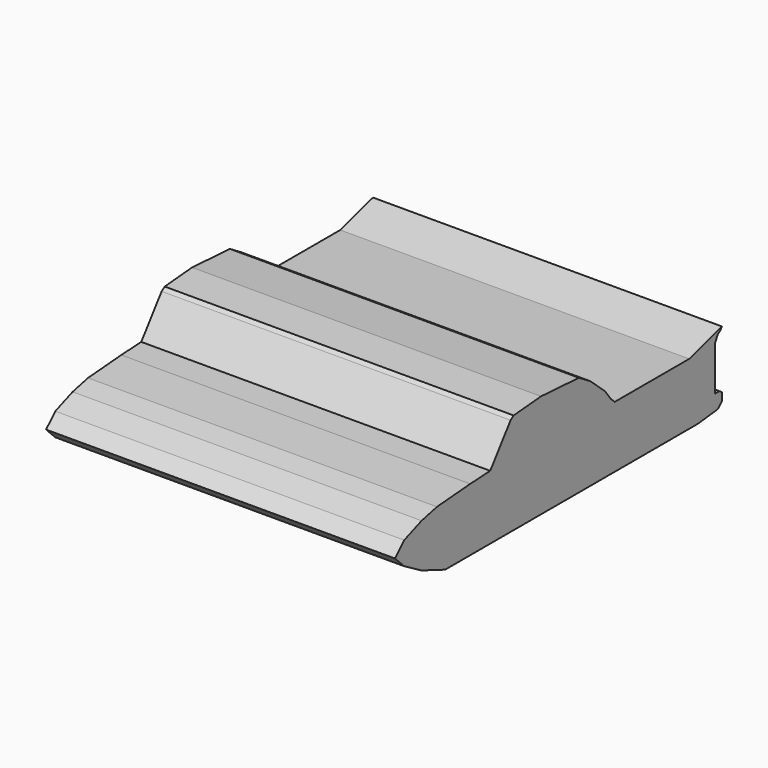
from build123d import *

# Parameters (mm, degrees)
F1_DEPTH = 76.2


with BuildPart() as f1:
    # F0 (on Right) → F1 (new body)
    with BuildSketch(Plane.YZ):
        Polygon((-26.158085, 0), (0, 0), (42.8137, 0), (48.25465, 0.594947), (49.383074, 1.723368), (49.383074, 3.393431), (48.706021, 3.889936), (48.25465, 3.889936), (47.44219, 3.889936), (47.44219, 5.514862), (47.44219, 7.591157), (47.44219, 13.443666), (48.25465, 15.021432), (48.895177, 15.409297), (49.383074, 16.049275), (40.465415, 13.443666), (29.207284, 13.443666), (20.130448, 13.443666), (19.025441, 14.469743), (17.446863, 16.600825), (13.421483, 20.15263), (10.343252, 22.046926), (0, 22.684909), (-7.467218, 22.046926), (-8.304652, 21.466825), (-13.862169, 14.006048), (-19.322567, 13.71085), (-28.407596, 12.992599), (-32.601777, 12.024712), (-37.336618, 10.222286), (-39.846085, 7.71282), (-37.336618, 5.203351), (-32.601777, 2.465752), align=None)
    extrude(amount=F1_DEPTH)


solid = f1.part
